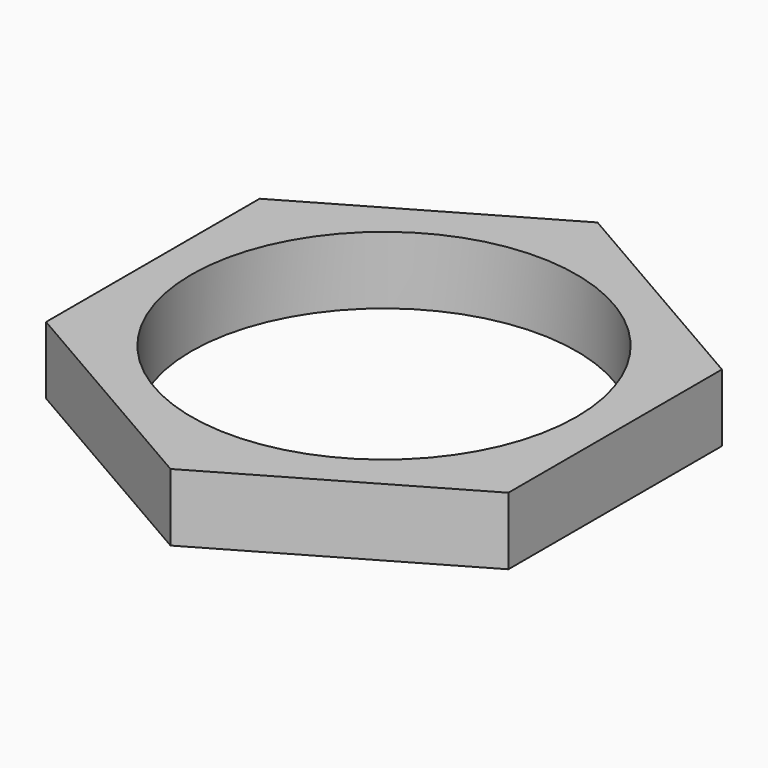
from build123d import *

# Parameters (mm, degrees)
SKETCH_R  = 10
PAD_DEPTH = 3.5


with BuildPart() as part:
    # Sketch → Pad (new body)
    with BuildSketch(Plane.XY):
        Polygon((0, 13.856406), (-12, 6.928203), (-12, -6.928203), (0, -13.856406), (12, -6.928203), (12, 6.928203), align=None)
        Circle(SKETCH_R, mode=Mode.SUBTRACT)
    extrude(amount=PAD_DEPTH)


solid = part.part
